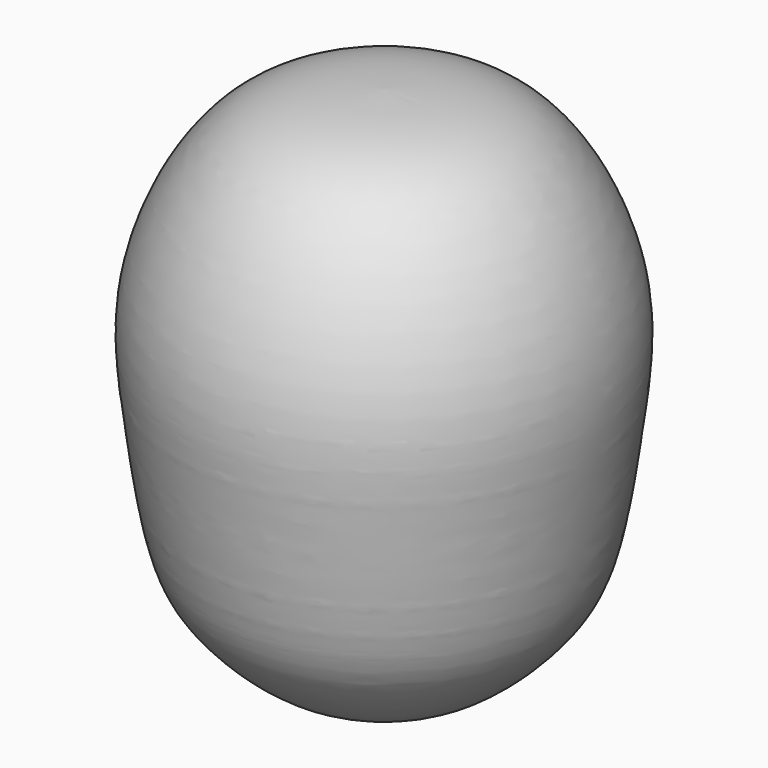
from build123d import *


with BuildPart() as f1:
    # F0 (on Front) → F1 (revolve)
    with BuildSketch(Plane.XZ):
        with BuildLine():
            add(Edge.make_bspline(
                [(0, 63.8342350721), (4.900972843, 63.661370273), (15.1989087174, 63.2981479005), (24.0191682707, 45.8578636989), (22.2651185031, 32.7889918741), (20.5428660892, 19.8471472595), (17.0434576525, 13.1392580617), (4.3449241902, 2.7813189652), (1.4881907429, 13.6497896157), (0, 19.3116366863)],
                knots=[0, 0, 0, 0, 0.1500186418, 0.3152195749, 0.4628377031, 0.6033085838, 0.7179110543, 0.8530482064, 1, 1, 1, 1], degree=3))
            Line((0, 63.8342350721), (0, 19.3116366863))
        make_face()
    revolve(axis=Axis((0, 0, 41.5729358792), (0, 0, -1)))


solid = f1.part
